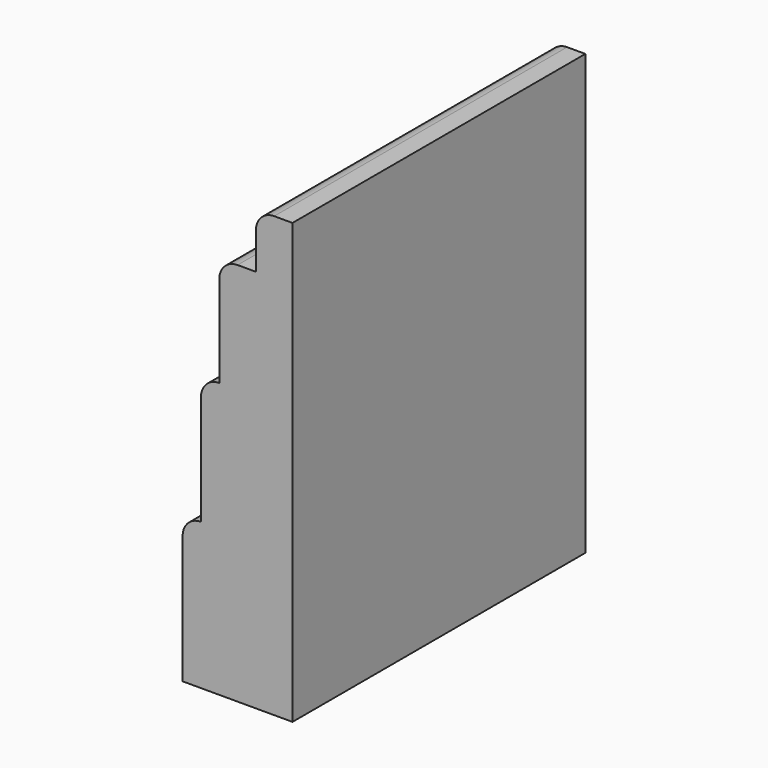
from build123d import *

# Parameters (mm, degrees)
F1_DEPTH = 100


with BuildPart() as f1:
    # F0 (on Front) → F1 (new body)
    with BuildSketch(Plane.XZ):
        with BuildLine():
            Line((34.869739, -52.836575), (34.869739, 67.163425))
            Line((34.869739, 67.163425), (29.869739, 67.163425))
            ThreePointArc((29.869739, 67.163425), (26.334205, 65.698959), (24.869739, 62.163425))
            Line((24.869739, 62.163425), (24.869739, 52.163425))
            Line((24.869739, 52.163425), (19.869739, 52.163425))
            ThreePointArc((19.869739, 52.163425), (16.334205, 50.698959), (14.869739, 47.163425))
            Line((14.869739, 47.163425), (14.869739, 22.163425))
            ThreePointArc((14.869739, 22.163425), (11.334205, 20.698959), (9.869739, 17.163425))
            Line((9.869739, 17.163425), (9.869739, -12.836575))
            ThreePointArc((9.869739, -12.836575), (6.334205, -14.301041), (4.869739, -17.836575))
            Line((4.869739, -17.836575), (4.869739, -52.836575))
            Line((4.869739, -52.836575), (34.869739, -52.836575))
        make_face()
    extrude(amount=F1_DEPTH)


solid = f1.part
